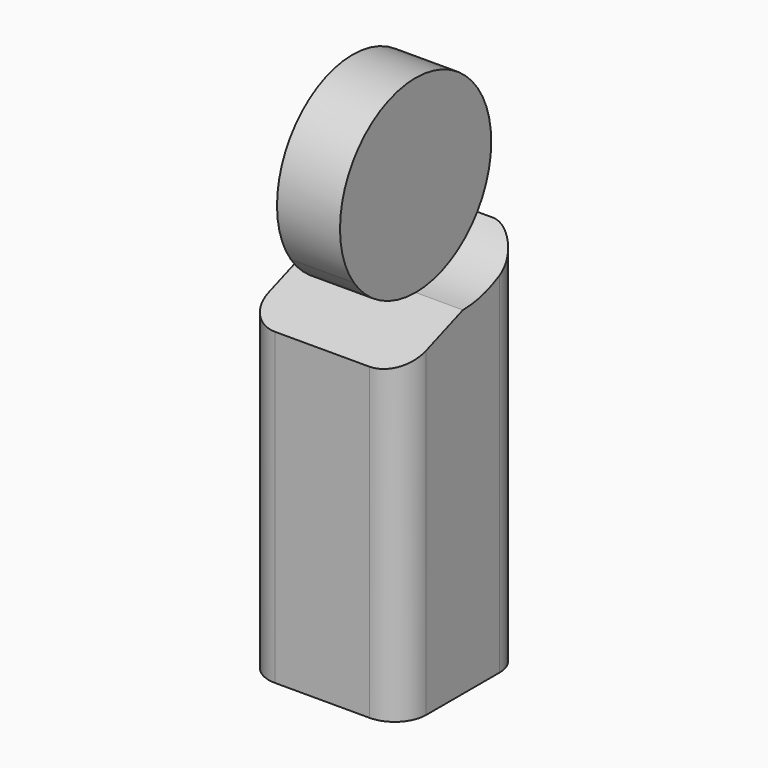
from build123d import *

# Parameters (mm, degrees)
F1_DEPTH = 12.7
F2_DEPTH = 31.75
F3_R     = 12.7


with BuildPart() as f1:
    # F0 (on Right) → F1 (new body, symmetric)
    with BuildSketch(Plane.YZ):
        with BuildLine():
            ThreePointArc((31.059256, -22.06655), (36.29716, -11.581285), (38.1, 0))
            ThreePointArc((38.1, 0), (-11.489227, 36.326405), (-31.170744, -21.908782))
            Line((-31.170744, -21.908782), (31.059256, -21.908782))
            Line((31.059256, -21.908782), (31.059256, -22.06655))
        make_face()
        with BuildLine():
            Line((31.059256, -174.308782), (31.059256, -22.06655))
            ThreePointArc((31.059256, -22.06655), (17.476763, -33.855173), (0, -38.1))
            Line((0, -38.1), (-31.170744, -49.680229))
            Line((-31.170744, -49.680229), (-31.170744, -174.308782))
            Line((-31.170744, -174.308782), (31.059256, -174.308782))
        make_face()
        with BuildLine():
            Line((31.059256, -21.908782), (-31.170744, -21.908782))
            ThreePointArc((-31.170744, -21.908782), (-17.562537, -33.810757), (0, -38.1))
            ThreePointArc((0, -38.1), (17.476763, -33.855173), (31.059256, -22.06655))
            Line((31.059256, -22.06655), (31.059256, -21.908782))
        make_face()
    extrude(amount=F1_DEPTH, both=True)

    # F0 (on Right) → F2 (join, symmetric)
    with BuildSketch(Plane.YZ):
        with BuildLine():
            Line((31.059256, -174.308782), (31.059256, -22.06655))
            ThreePointArc((31.059256, -22.06655), (17.476763, -33.855173), (0, -38.1))
            Line((0, -38.1), (-31.170744, -49.680229))
            Line((-31.170744, -49.680229), (-31.170744, -174.308782))
            Line((-31.170744, -174.308782), (31.059256, -174.308782))
        make_face()
    extrude(amount=F2_DEPTH, both=True)

    # F3
    f3_edges = [f1.edges().sort_by_distance(p)[0] for p in [
        (31.75, -31.170744, -111.994506),
        (31.75, 31.059256, -98.187666),
        (-31.75, -31.170744, -111.994506),
        (-31.75, 31.059256, -98.187666),
    ]]
    fillet(f3_edges, radius=F3_R)


solid = f1.part
